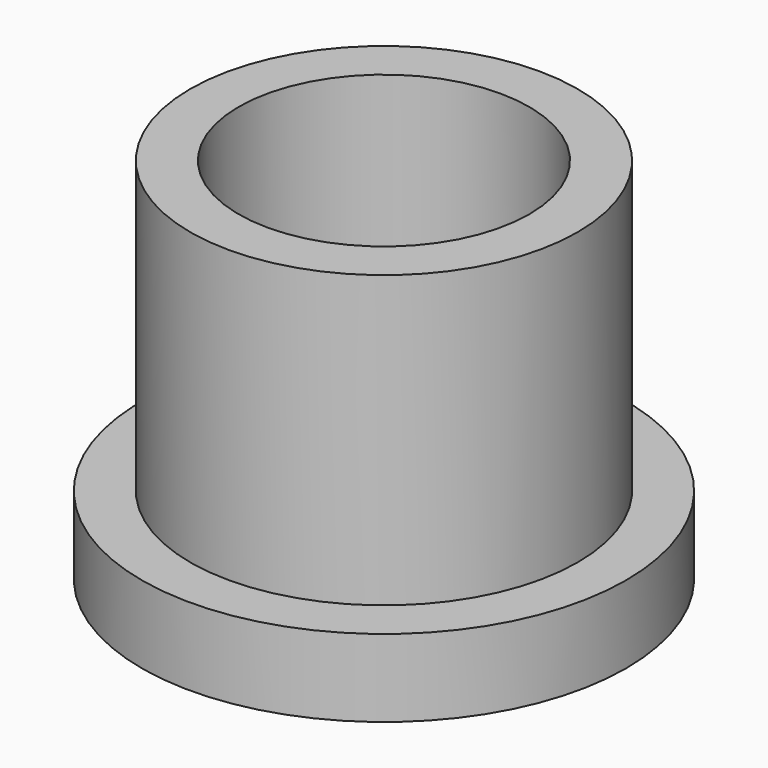
from build123d import *

# Parameters (mm, degrees)
F0_R     = 15.875
F1_DEPTH = 5.08
F2_R     = 12.7
F3_DEPTH = 19.05
F4_R     = 9.525
F5_DEPTH = 24.131


with BuildPart() as f1:
    # F0 (on Top) → F1 (new body)
    with BuildSketch(Plane.XY):
        Circle(F0_R)
    extrude(amount=F1_DEPTH)

    # F2 (on face) → F3 (join)
    with BuildSketch(Plane.XY.offset(5.08)):
        Circle(F2_R)
    extrude(amount=F3_DEPTH)

    # F4 (on face) → F5 (cut, through all)
    with BuildSketch(Plane.XY.offset(24.13)):
        Circle(F4_R)
    extrude(amount=-F5_DEPTH, mode=Mode.SUBTRACT)


solid = f1.part
